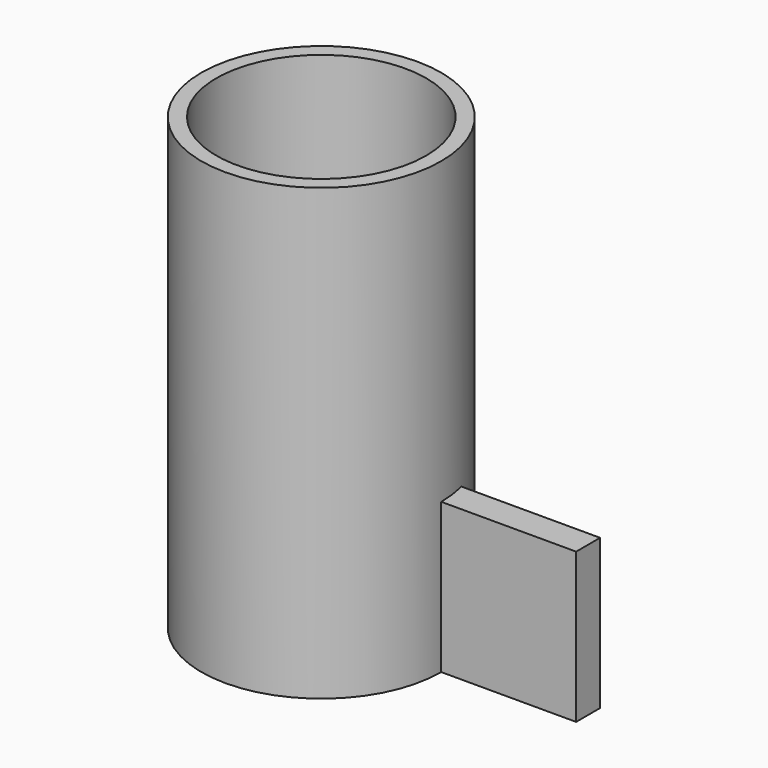
from build123d import *

# Parameters (mm, degrees)
CYLINDER001_R           = 7
CYLINDER001_DEPTH       = 30
CYLINDER_R              = 8
CYLINDER_DEPTH          = 30
BOX_W                   = 10
BOX_H                   = 2
BOX_DEPTH               = 10
CYLINDER002_R           = 2
CYLINDER002_DEPTH       = 10
CYLINDER002_PITCH_ANGLE = -11.149372


with BuildPart() as inside:
    # Cylinder001 → Cylinder001 (new body)
    with BuildSketch(Plane.XY):
        Circle(CYLINDER001_R)
    extrude(amount=CYLINDER001_DEPTH)


with BuildPart() as cut:
    # Cylinder → Cylinder (new body)
    with BuildSketch(Plane.XY):
        Circle(CYLINDER_R)
    extrude(amount=CYLINDER_DEPTH)

    # Cut: cut inside
    add(inside.part, mode=Mode.SUBTRACT)


with BuildPart() as fin1:
    # Box → Box (new body)
    with BuildSketch(Plane(origin=(7, 0, 0), x_dir=(1, 0, 0), z_dir=(0, 0, 1))):
        with Locations((5, 1)):
            Rectangle(BOX_W, BOX_H)
    extrude(amount=BOX_DEPTH)


with BuildPart() as cylinder:
    # Cylinder002 → Cylinder002 (new body)
    with BuildSketch(Plane.XY):
        Circle(CYLINDER002_R)
    extrude(amount=CYLINDER002_DEPTH)


with BuildPart() as cylinder_1:
    # Cylinder002 pitch: moved
    add(cylinder.part.rotate(Axis((0, 0, 0), (0, 1, 0)), CYLINDER002_PITCH_ANGLE))


with BuildPart() as cylinder_2:
    # Cylinder002 placement: moved
    add(cylinder_1.part)


solid = Compound([cut.part, fin1.part, cylinder_2.part])
